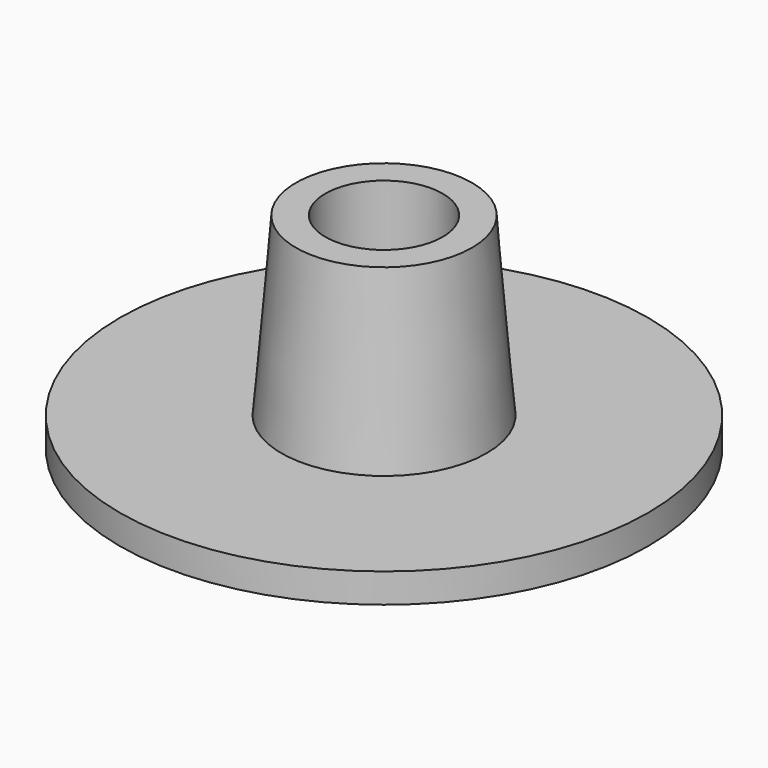
from build123d import *

# Parameters (mm, degrees)
SKETCH_R     = 9
PAD_DEPTH    = 1
SKETCH001_R  = 3.5
SKETCH002_R  = 3
SKETCH003_R  = 2
POCKET_DEPTH = 7.001


with BuildPart() as pad:
    # Sketch → Pad (new body)
    with BuildSketch(Plane.XY):
        Circle(SKETCH_R)
    extrude(amount=PAD_DEPTH)


with BuildPart() as pocket:
    # Sketch001 → Loft section 0
    with BuildSketch(Plane.XY.offset(1)):
        Circle(SKETCH001_R)
    # Sketch002 → Loft section 1
    with BuildSketch(Plane.XY.offset(7)):
        Circle(SKETCH002_R)
    loft()

    # Fusion: union Pad
    add(pad.part)

    # Sketch003 → Pocket (cut, through all)
    with BuildSketch(Plane.XY.offset(7)):
        Circle(SKETCH003_R)
    extrude(amount=-POCKET_DEPTH, mode=Mode.SUBTRACT)


solid = pocket.part
